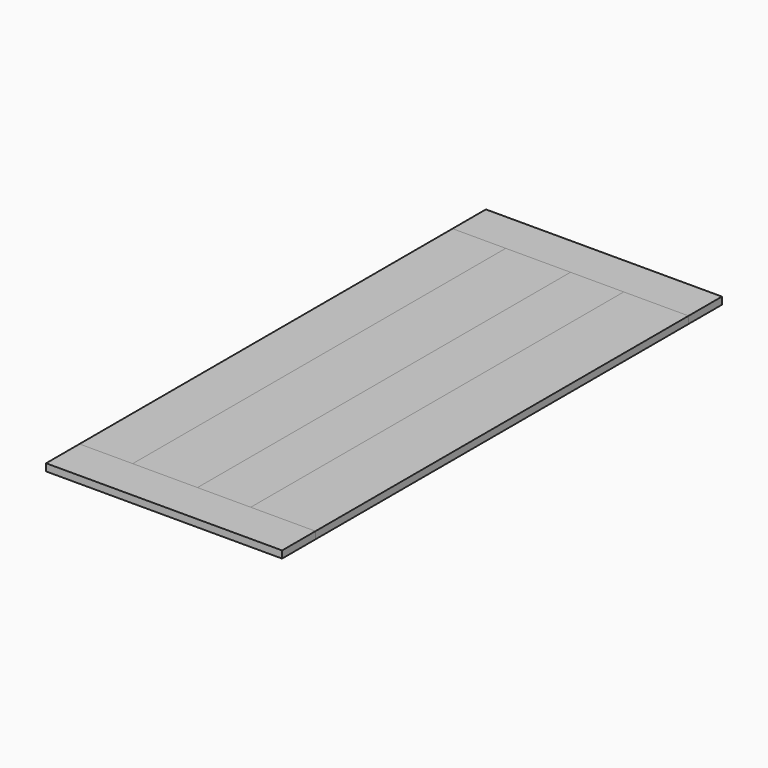
from build123d import *

# Parameters (mm, degrees)
F0_W     = 285.75
F0_H     = 2057.4
F5_DEPTH = 31.75
F1_W     = 234.95
F1_H     = 2057.4
F2_W     = 285.75
F2_H     = 2057.4
F3_W     = 234.95
F3_H     = 2057.4
F4_W     = 1041.4
F4_H     = 184.15


with BuildPart() as f5:
    # F0 (on Top) → F5 (new body)
    with BuildSketch(Plane.XY):
        with Locations((-142.875, 0)):
            Rectangle(F0_W, F0_H)
    extrude(amount=F5_DEPTH)


with BuildPart() as f5b:
    # F1 (on Top) → F5, piece 2 (new body)
    with BuildSketch(Plane.XY):
        with Locations((117.475, 0)):
            Rectangle(F1_W, F1_H)
    extrude(amount=F5_DEPTH)


with BuildPart() as f5c:
    # F2 (on Top) → F5, piece 3 (new body)
    with BuildSketch(Plane.XY):
        with Locations((377.825, 0)):
            Rectangle(F2_W, F2_H)
    extrude(amount=F5_DEPTH)


with BuildPart() as f5d:
    # F3 (on Top) → F5, piece 4 (new body)
    with BuildSketch(Plane.XY):
        with Locations((-403.225, 0)):
            Rectangle(F3_W, F3_H)
    extrude(amount=F5_DEPTH)


with BuildPart() as f5e:
    # F4 (on Top) → F5, piece 5 (new body)
    with BuildSketch(Plane.XY):
        with Locations((0, 1120.775)):
            Rectangle(F4_W, F4_H)
    extrude(amount=F5_DEPTH)


with BuildPart() as f5f:
    # F4 (on Top) → F5, piece 6 (new body)
    with BuildSketch(Plane.XY):
        with Locations((0, -1120.775)):
            Rectangle(F4_W, F4_H)
    extrude(amount=F5_DEPTH)


solid = Compound([f5.part, f5b.part, f5c.part, f5d.part, f5e.part, f5f.part])
